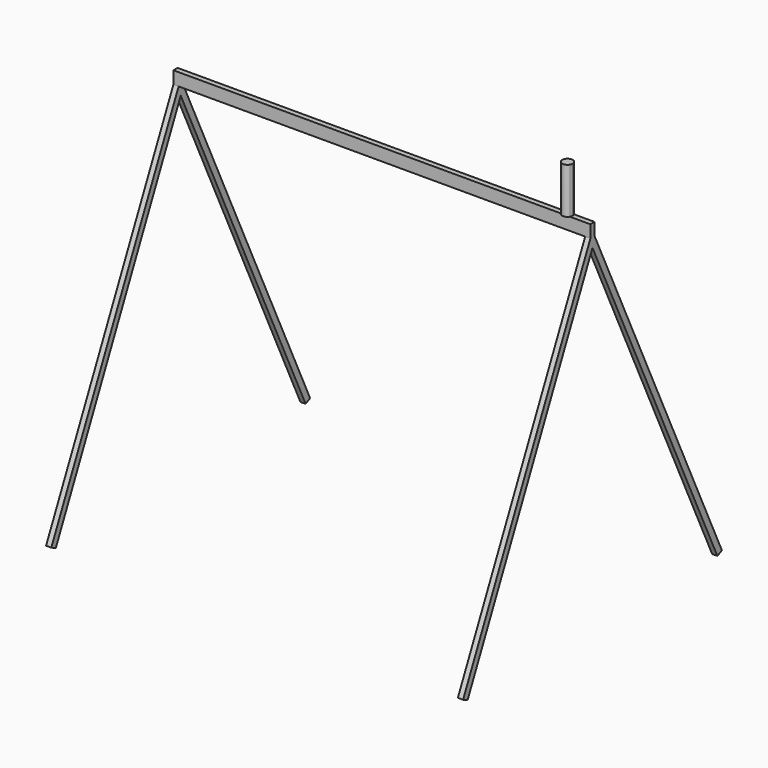
from build123d import *

# Parameters (mm, degrees)
F0_W     = 25
F0_H     = 60
F1_DEPTH = 1000
F3_DEPTH = 25
F6_DEPTH = 220


with BuildPart() as f1:
    # F0 (on Right) → F1 (new body, symmetric)
    with BuildSketch(Plane.YZ):
        with Locations((0, 1680)):
            Rectangle(F0_W, F0_H)
    extrude(amount=F1_DEPTH, both=True)

    # F2 (on face) → F3 (join)
    with BuildSketch(Plane.YZ.offset(1000)):
        Polygon((12.5, 1650), (-12.5, 1650), (-775.995531998, 12.6785478522), (-748.8062983869, 0), (0, 1605.8202890118), (748.8062983869, 0), (775.995531998, 12.6785478522), align=None)
    extrude(amount=-F3_DEPTH)

    # F4: F1 across plane


with BuildPart() as f1_1:
    add(f1.part)
    add(f1.part.mirror(Plane.YZ))

    # F5 (on face) → F6 (join)
    with BuildSketch(Plane.XY.offset(1710)):
        with BuildLine():
            ThreePointArc((901.6506350946, -12.5), (904.1481456572, -6.4704761276), (905, 0))
            ThreePointArc((905, 0), (904.1481456572, 6.4704761276), (901.6506350946, 12.5))
            Line((901.6506350946, 12.5), (858.3493649054, 12.5))
            ThreePointArc((858.3493649054, 12.5), (855, 0), (858.3493649054, -12.5))
            Line((858.3493649054, -12.5), (901.6506350946, -12.5))
        make_face()
        with BuildLine():
            Line((858.3493649054, 12.5), (901.6506350946, 12.5))
            ThreePointArc((901.6506350946, 12.5), (880, 25), (858.3493649054, 12.5))
        make_face()
        with BuildLine():
            ThreePointArc((858.3493649054, -12.5), (880, -25), (901.6506350946, -12.5))
            Line((901.6506350946, -12.5), (858.3493649054, -12.5))
        make_face()
    extrude(amount=F6_DEPTH)


solid = f1_1.part
